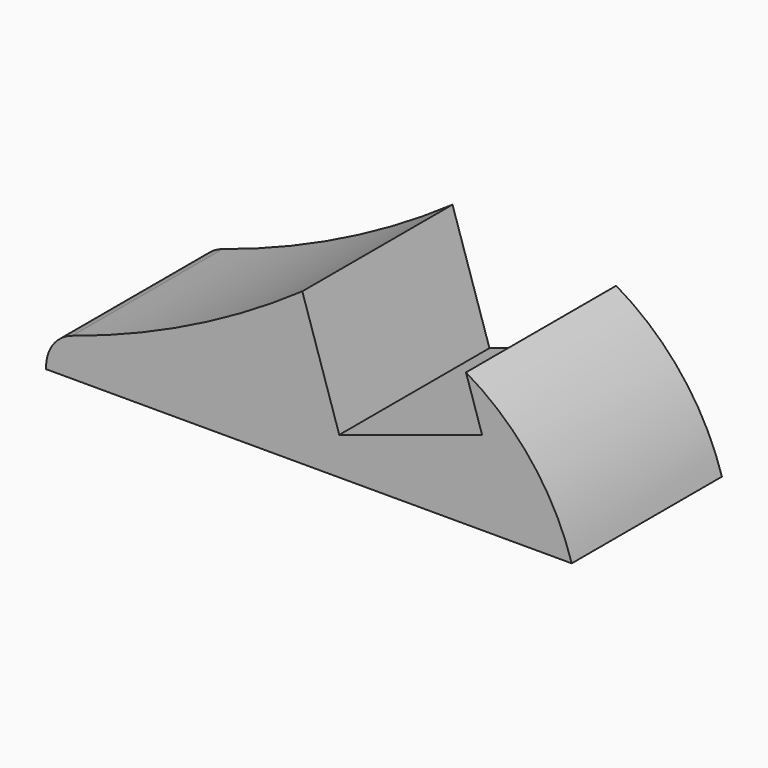
from build123d import *

# Parameters (mm, degrees)
F1_DEPTH = 25
F2_R     = 5


with BuildPart() as f1:
    # F0 (on Front) → F1 (new body)
    with BuildSketch(Plane.XZ):
        with BuildLine():
            Line((-26.664281, 4), (-26.664281, 0))
            Line((-26.664281, 0), (43.335719, 0))
            ThreePointArc((43.335719, 0), (37.978653, 10.23556), (29.255193, 17.809602))
            Line((29.255193, 17.809602), (31.407206, 11.148608))
            Line((31.407206, 11.148608), (12.375794, 5))
            Line((12.375794, 5), (7.456908, 20.225129))
            ThreePointArc((7.456908, 20.225129), (-8.926448, 10.688342), (-26.664281, 4))
        make_face()
    extrude(amount=F1_DEPTH)

    # F2
    f2_edges = [f1.edges().sort_by_distance(p)[0] for p in [
        (-26.664281, -12.5, 4),
    ]]
    fillet(f2_edges, radius=F2_R)


solid = f1.part
